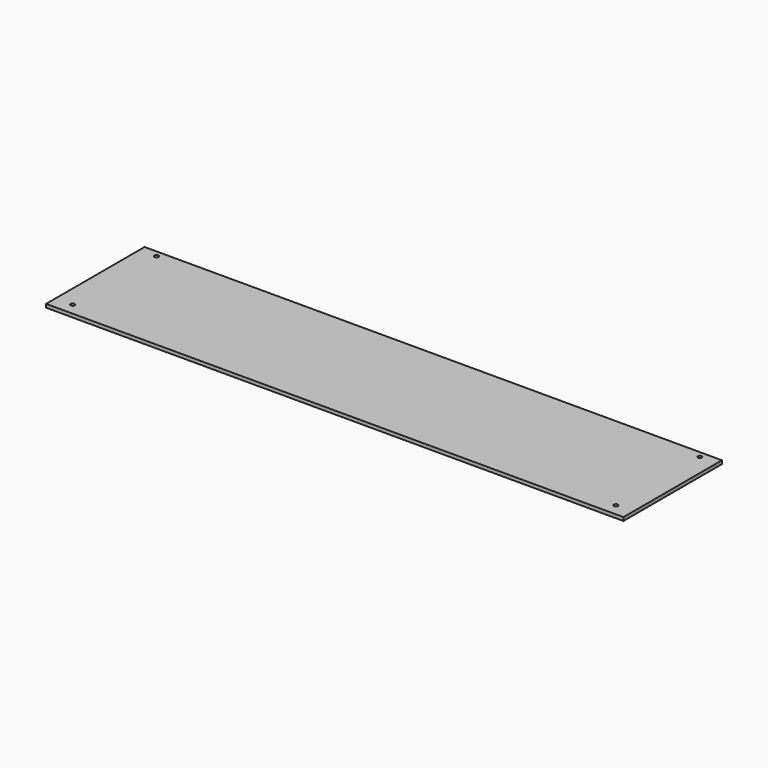
from build123d import *

# Parameters (mm, degrees)
F0_W     = 863.6
F0_H     = 184.15
F1_DEPTH = 5.159375
F3_D     = 6


with BuildPart() as f1:
    # F0 (on Top) → F1 (new body)
    with BuildSketch(Plane.XY):
        with Locations((431.8, -92.075)):
            Rectangle(F0_W, F0_H)
    extrude(amount=F1_DEPTH)

    # F3 (through all)
    with Locations(Plane.XY.offset(5.159375)):
        with Locations((25.467259, -9.537981), (25.467259, -166.382981), (838.132741, -166.382981), (838.132741, -9.537981)):
            Hole(F3_D / 2)


solid = f1.part
